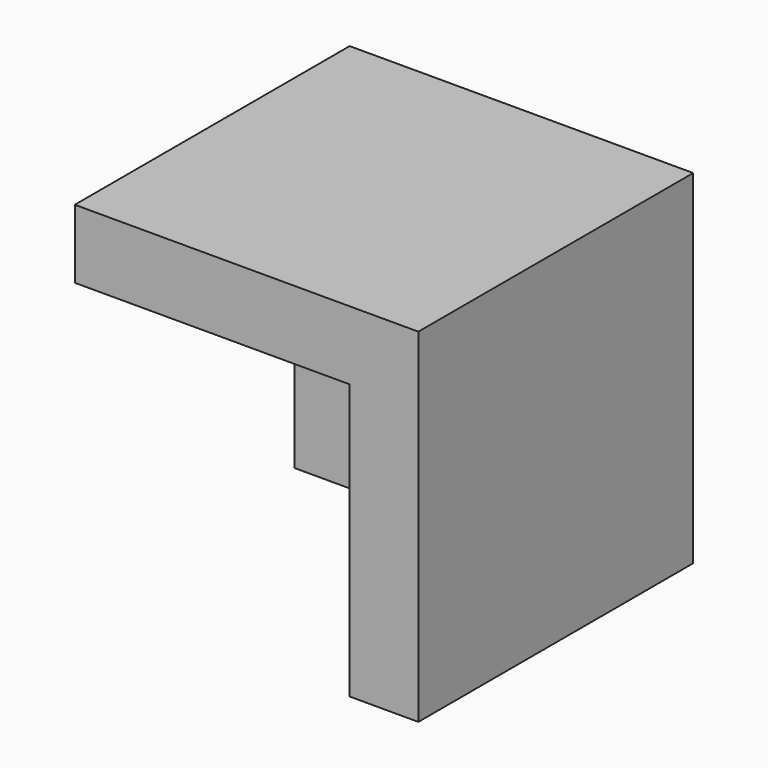
from build123d import *

# Parameters (mm, degrees)
BOX_W        = 10
BOX_H        = 10
BOX_DEPTH    = 10
BOX001_W     = 10
BOX001_H     = 10
BOX001_DEPTH = 10


with BuildPart() as cub_base:
    # Box → Box (new body)
    with BuildSketch(Plane.XY):
        with Locations((5, 5)):
            Rectangle(BOX_W, BOX_H)
    extrude(amount=BOX_DEPTH)


with BuildPart() as cut:
    # Box001 → Box001 (new body)
    with BuildSketch(Plane(origin=(2, 2, 2), x_dir=(1, 0, 0), z_dir=(0, 0, 1))):
        with Locations((5, 5)):
            Rectangle(BOX001_W, BOX001_H)
    extrude(amount=BOX001_DEPTH)

    # Cut: cut Cub-Base
    add(cub_base.part, mode=Mode.SUBTRACT)


solid = cut.part
